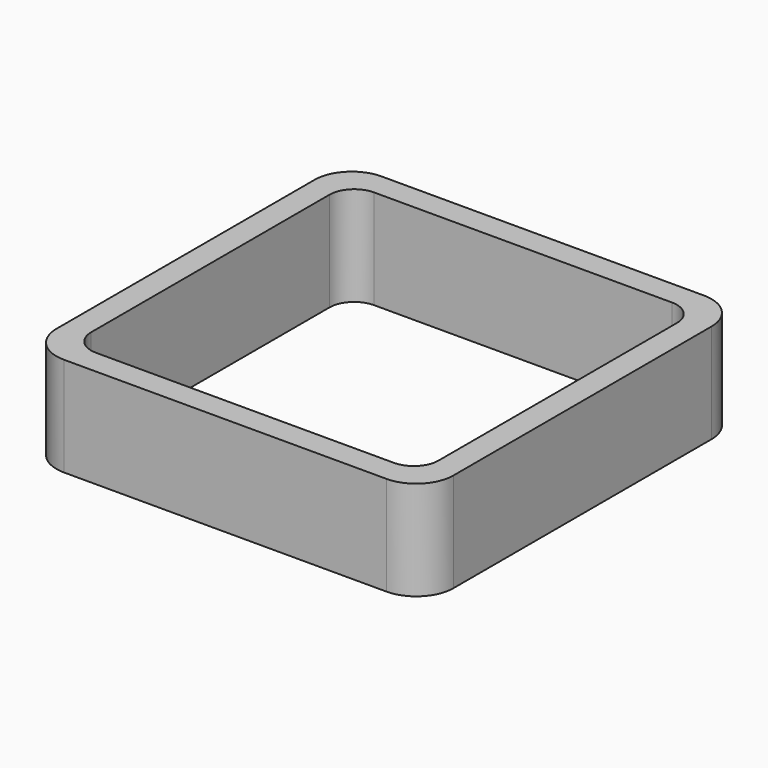
from build123d import *

# Parameters (mm, degrees)
EXTRUDE_DEPTH = 50


with BuildPart() as part:
    # Sketch → Extrude (new body)
    with BuildSketch(Plane.XY):
        with BuildLine():
            Line((-81.25, 100), (81.25, 100))
            ThreePointArc((100, 81.25), (94.508252, 94.508252), (81.25, 100))
            Line((100, 81.25), (100, -81.25))
            ThreePointArc((81.25, -100), (94.508252, -94.508252), (100, -81.25))
            Line((81.25, -100), (-81.25, -100))
            ThreePointArc((-100, -81.25), (-94.508252, -94.508252), (-81.25, -100))
            Line((-100, -81.25), (-100, 81.25))
            ThreePointArc((-81.25, 100), (-94.508252, 94.508252), (-100, 81.25))
        make_face()
        with BuildLine():
            Line((-75, 87.5), (75, 87.5))
            ThreePointArc((87.5, 75), (83.838835, 83.838835), (75, 87.5))
            Line((87.5, 75), (87.5, -75))
            ThreePointArc((75, -87.5), (83.838835, -83.838835), (87.5, -75))
            Line((75, -87.5), (-75, -87.5))
            ThreePointArc((-87.5, -75), (-83.838835, -83.838835), (-75, -87.5))
            Line((-87.5, -75), (-87.5, 75))
            ThreePointArc((-75, 87.5), (-83.838835, 83.838835), (-87.5, 75))
        make_face(mode=Mode.SUBTRACT)
    extrude(amount=EXTRUDE_DEPTH)


solid = part.part
